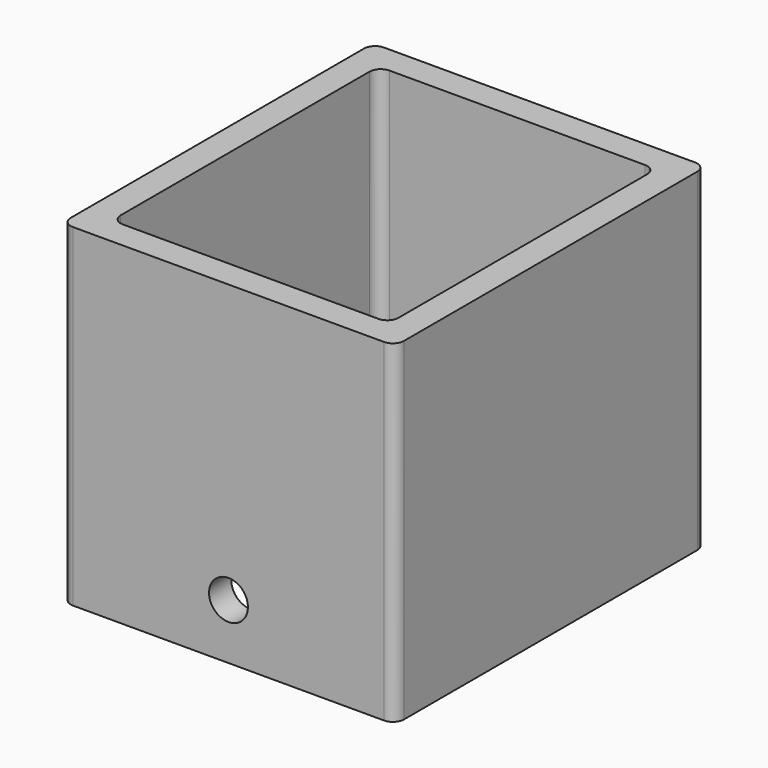
from build123d import *

# Parameters (mm, degrees)
F0_W     = 60
F0_H     = 70
F0_W_2   = 50
F0_H_2   = 60
F1_DEPTH = 60
F2_R     = 2
F3_R     = 3.5
F4_DEPTH = 70


with BuildPart() as f1:
    # F0 (on Top) → F1 (new body)
    with BuildSketch(Plane.XY):
        Rectangle(F0_W, F0_H)
        Rectangle(F0_W_2, F0_H_2, mode=Mode.SUBTRACT)
    extrude(amount=F1_DEPTH)

    # F2
    f2_edges = [f1.edges().sort_by_distance(p)[0] for p in [
        (30, 35, 30),
        (-30, 35, 30),
        (30, -35, 30),
        (-30, -35, 30),
        (-25, 30, 30),
        (-25, -30, 30),
        (25, -30, 30),
        (25, 30, 30),
    ]]
    fillet(f2_edges, radius=F2_R)

    # F3 (on face) → F4 (cut)
    with BuildSketch(Plane(origin=(0, 35, 0), x_dir=(-1, 0, 0), z_dir=(0, 1, 0))):
        with Locations((0, 10)):
            Circle(F3_R)
    extrude(amount=-F4_DEPTH, mode=Mode.SUBTRACT)


solid = f1.part
